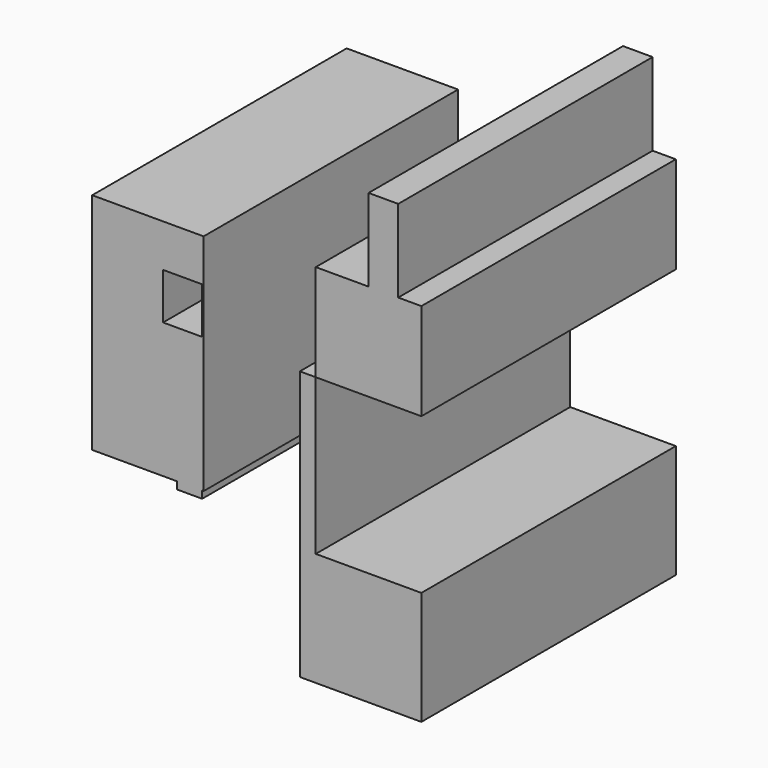
from build123d import *

# Parameters (mm, degrees)
F0_W     = 8.5057541728
F0_H     = 23.6501097679
F1_DEPTH = 91.2012979388
F0_W_2   = 11.2026780844
F0_H_2   = 13.2772549987
F0_W_3   = 7.2609931231
F0_H_3   = 2.0745694637
F0_H_4   = 26.7619639635


with BuildPart() as f1:
    # F0 (on Front) → F1 (new body)
    with BuildSketch(Plane.XZ):
        with Locations((33.9192189276, 64.1042664647)):
            Rectangle(F0_W, F0_H)
        Polygon((14.5219713449, 24.4799554348), (44.8107123375, 24.4799554348), (44.8107123375, 52.2792115808), (38.172096014, 52.2792115808), (29.6663418412, 52.2792115808), (14.5219713449, 52.2792115808), align=None)
    extrude(amount=F1_DEPTH)


with BuildPart() as f1b:
    # F0 (on Front) → F1, piece 2 (new body)
    with BuildSketch(Plane.XZ):
        Polygon((-25.3098011017, -14.7294402122), (-25.3098011017, 12.0325237513), (-18.0488079786, 12.0325237513), (-18.0488079786, -14.7294402122), (-17.6338851452, -14.7294402122), (-17.6338851452, 49.5822653174), (-49.5822876692, 49.5822653174), (-49.5822876692, -14.7294402122), align=None)
        with Locations((-23.6501470208, 30.7036675513)):
            Rectangle(F0_W_2, F0_H_2, mode=Mode.SUBTRACT)
        with Locations((-21.6793045402, -15.7667249441)):
            Rectangle(F0_W_3, F0_H_3)
        with Locations((-21.6793045402, -1.3484582305)):
            Rectangle(F0_W_3, F0_H_4)
    extrude(amount=F1_DEPTH)


with BuildPart() as f1c:
    # F0 (on Front) → F1, piece 3 (new body)
    with BuildSketch(Plane.XZ):
        Polygon((44.8107123375, -52.6940971613), (44.8107123375, -20.1233327389), (14.5219713449, -20.1233327389), (14.5219713449, 24.4799554348), (9.957909584, 24.4799554348), (9.957909584, -52.6940971613), align=None)
    extrude(amount=F1_DEPTH)


solid = Compound([f1.part, f1b.part, f1c.part])
